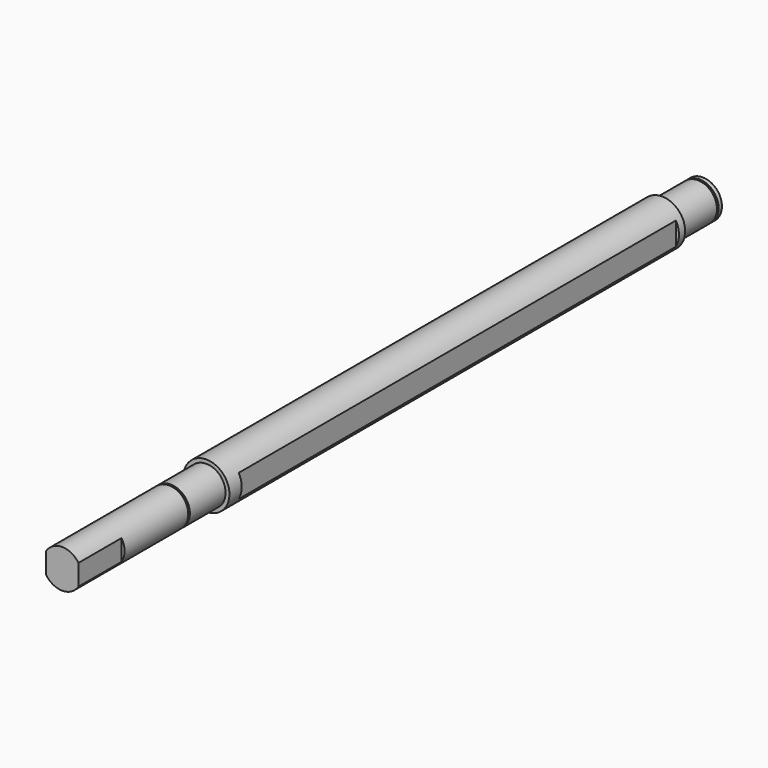
from build123d import *

# Parameters (mm, degrees)
F3_DEPTH = 35
F5_START = -5
F5_DEPTH = 355


with BuildPart() as f1:
    # F0 (on Right) → F1 (revolve)
    with BuildSketch(Plane.YZ):
        Polygon((-185, 0), (-185, 12.5), (-214, 12.5), (-214, 11.9), (-215.3, 11.9), (-215.3, 12.5), (-302, 12.5), (-302, 0), align=None)
        Polygon((185, 12.5), (185, 15), (-185, 15), (-185, 12.5), (-185, 0), (185, 0), align=None)
        Polygon((214, 12.5), (185, 12.5), (185, 0), (218, 0), (218, 12.5), (215.3, 12.5), (215.3, 11.9), (214, 11.9), align=None)
    revolve(axis=Axis((0, -30.9201925993, 0), (0, 1, 0)))

    # F2 (on face) → F3 (cut)
    with BuildSketch(Plane.XZ.offset(302)):
        with BuildLine():
            Line((-10.5, -6.7823299831), (-10.5, 6.7823299831))
            ThreePointArc((-10.5, 6.7823299831), (-12.5, 0), (-10.5, -6.7823299831))
        make_face()
        with BuildLine():
            ThreePointArc((12.5, 0), (11.9895788083, 3.5355339059), (10.5, 6.7823299831))
            Line((10.5, 6.7823299831), (10.5, -6.7823299831))
            ThreePointArc((10.5, -6.7823299831), (11.9895788083, -3.5355339059), (12.5, 0))
        make_face()
    extrude(amount=-F3_DEPTH, mode=Mode.SUBTRACT)

    # F4 (on face) → F5 (cut)
    with BuildSketch(Plane(origin=(0, 185, 0), x_dir=(-1, 0, 0), z_dir=(0, 1, 0)).offset(F5_START)):
        with BuildLine():
            Line((-13, -7.4833147735), (-13, 7.4833147735))
            ThreePointArc((-13, 7.4833147735), (-15, 0), (-13, -7.4833147735))
        make_face()
        with BuildLine():
            ThreePointArc((13, -7.4833147735), (15, 0), (13, 7.4833147735))
            Line((13, 7.4833147735), (13, -7.4833147735))
        make_face()
    extrude(amount=-F5_DEPTH, mode=Mode.SUBTRACT)


solid = f1.part
